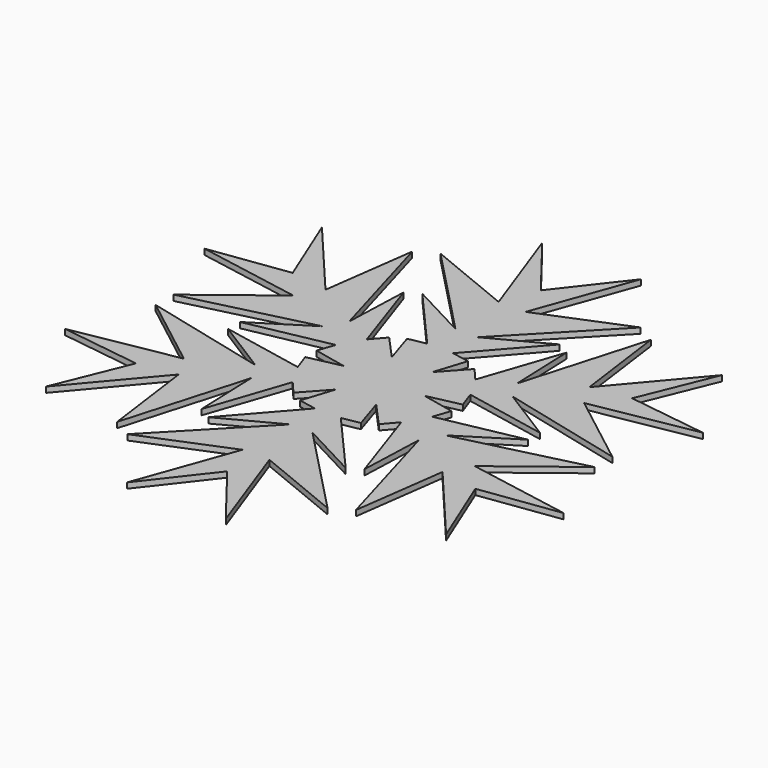
from build123d import *

# Parameters (mm, degrees)
F1_DEPTH = 2
F4_COUNT = 6
F4_ANGLE = 300


with BuildPart() as f1:
    # F0 (on Top) → F1 (new body)
    with BuildSketch(Plane.XY):
        Polygon((4.630033, 25.07996), (24.53151, 47.784701), (3.992958, 36.931831), (35.760634, 69.906734), (4.827321, 57.226207), (17.619738, 92.714362), (0, 70.044786), (0, 0), (3.223337, 0), (10.876871, 23.889082), align=None)
    extrude(amount=F1_DEPTH)

    # F2: F1 across plane


with BuildPart() as f1_1:
    add(f1.part)
    add(f1.part.mirror(Plane.YZ))

    # F4: F1 ×6 about axis
    f4_axis = Axis((0, 0, 4.113019), (0, 0, 1))


with BuildPart() as f1_2:
    add(f1_1.part)
    for i in range(1, F4_COUNT):
        add(f1_1.part.rotate(f4_axis, i * F4_ANGLE / (F4_COUNT - 1)))


solid = f1_2.part
